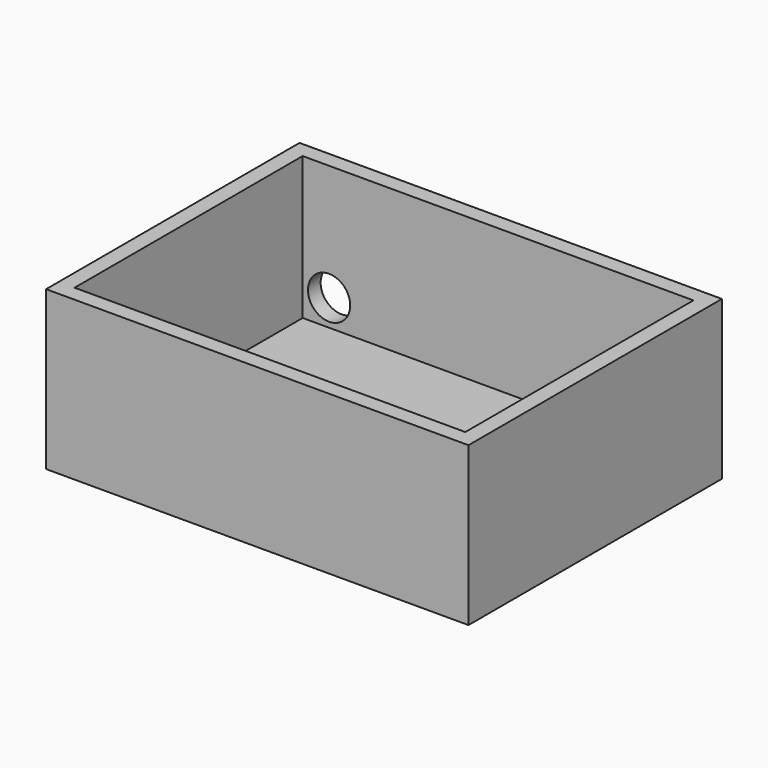
from build123d import *

# Parameters (mm, degrees)
F0_W     = 74
F0_H     = 54
F1_DEPTH = 3
F0_W_2   = 80
F0_H_2   = 60
F2_DEPTH = 30
F3_R     = 4
F4_DEPTH = 5


with BuildPart() as f1:
    # F0 (on Top) → F1 (new body)
    with BuildSketch(Plane.XY):
        with Locations((40, -30)):
            Rectangle(F0_W, F0_H)
    extrude(amount=F1_DEPTH)

    # F0 (on Top) → F2 (join)
    with BuildSketch(Plane.XY):
        with Locations((40, -30)):
            Rectangle(F0_W_2, F0_H_2)
        with Locations((40, -30)):
            Rectangle(F0_W, F0_H, mode=Mode.SUBTRACT)
    extrude(amount=F2_DEPTH)

    # F3 (on Front) → F4 (cut)
    with BuildSketch(Plane.XZ):
        with Locations((72, 8)):
            Circle(F3_R)
        with Locations((8, 8)):
            Circle(F3_R)
    extrude(amount=F4_DEPTH, mode=Mode.SUBTRACT)


solid = f1.part
